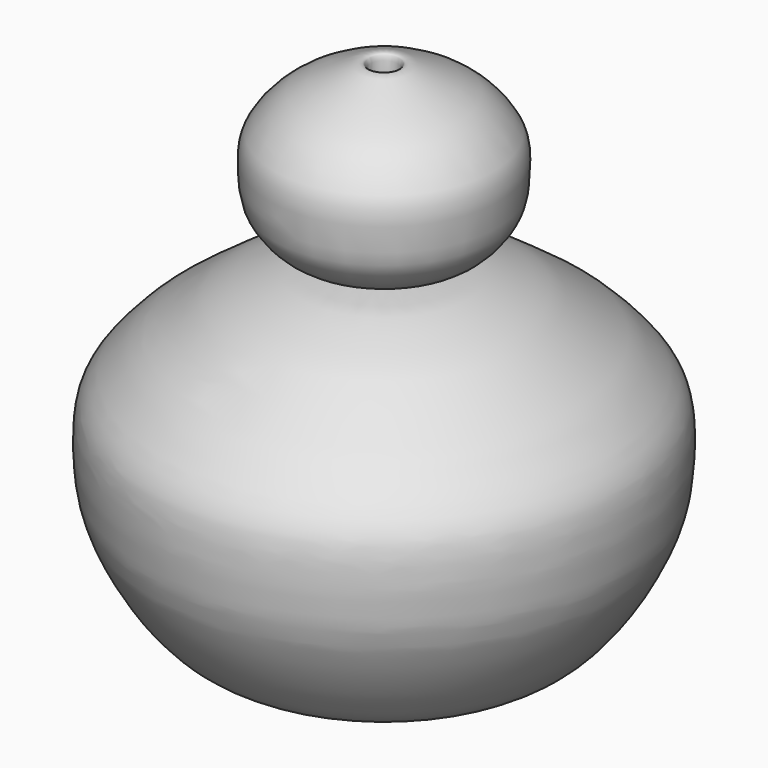
from build123d import *


with BuildPart() as f1:
    # F0 (on Front) → F1 (revolve)
    with BuildSketch(Plane.XZ):
        with BuildLine():
            Line((0, -48.650238663), (0, -42.9697558284))
            Line((0, -42.9697558284), (-7.162347436, -42.9697558284))
            add(Edge.make_bspline(
                [(-2.9637310654, 64.9594441056), (-5.1092717231, 64.3106859449), (-9.2877012785, 63.0472327153), (-14.1170116118, 59.540211813), (-19.3790109379, 55.4402134523), (-22.8770621451, 48.7440853716), (-21.0106904793, 41.7779198256), (-16.3202679889, 36.4703674929), (-10.8828529813, 35.2536961722), (-3.3916316797, 35.8691101247), (-2.5583255739, 29.1713192455), (-7.3093259713, 29.3621305916), (-13.5468967049, 27.792277703), (-21.3350016677, 24.5659510285), (-29.1843917461, 20.4043394851), (-35.816424698, 15.9466819621), (-41.6367947769, 11.2460747247), (-44.7784958946, 4.7433554049), (-49.7755883407, 0.3860107467), (-48.2829176344, -7.2600201409), (-49.0092578145, -13.9138027344), (-46.0138609899, -20.1641744998), (-41.6787485574, -27.0262998709), (-36.3091309606, -33.1719901705), (-30.0941589696, -36.7480925409), (-22.9341143337, -41.3232092438), (-14.3629573034, -42.5996703474), (-9.4905477181, -42.8500946973), (-7.162347436, -42.9697558284)],
                knots=[0, 0, 0, 0, 0.0375786264, 0.0731841845, 0.1110000696, 0.1500116125, 0.1883518658, 0.2261677599, 0.2609806783, 0.298492594, 0.3287822052, 0.3566000636, 0.3942582702, 0.4371032315, 0.480987201, 0.5225157507, 0.5622671814, 0.6014206699, 0.6374519208, 0.6766989727, 0.7145929668, 0.7524219046, 0.7944824285, 0.8360798233, 0.8752333154, 0.9177421493, 0.9606944474, 1, 1, 1, 1], degree=3))
            add(Edge.make_bspline(
                [(-3.7046659272, -48.650238663), (-6.5168389345, -48.7866358164), (-12.3726988315, -49.0706591035), (-22.3278007894, -46.874868188), (-29.7153411098, -42.8115125088), (-36.0566147843, -40.659525268), (-41.7995034689, -35.4206941157), (-46.837900776, -28.2776614189), (-50.8244084676, -20.590925943), (-53.1817678728, -13.3765873148), (-53.7606501751, -4.7696017761), (-53.3658673087, 3.9515335797), (-48.9533387818, 9.4934303838), (-43.6310742953, 15.071847815), (-36.7375760675, 19.6888841874), (-30.5450824843, 24.5090838531), (-22.9627926408, 27.7249652798), (-15.2525132495, 30.6644649112), (-8.2457913697, 30.0669086631), (-8.6758137954, 34.2095250309), (-15.2967348928, 32.9546579907), (-20.0148630431, 35.4473656312), (-25.0058947917, 41.7438643829), (-25.1876736848, 48.8861438866), (-25.3513653307, 54.554423752), (-20.8265861719, 60.8644767073), (-14.3383342941, 65.2713855378), (-9.81593075, 66.7246082728), (-2.6546451957, 70.9537645592), (-2.8667692615, 66.8398928144), (-2.9637310654, 64.9594441056)],
                knots=[0, 0, 0, 0, 0.0395769332, 0.0824120618, 0.1214279507, 0.1558008664, 0.1927336472, 0.2327631572, 0.2722753168, 0.3091383326, 0.3487877627, 0.3879294982, 0.4229845793, 0.4602990214, 0.4990766905, 0.5366957691, 0.5751869104, 0.615011891, 0.6473345639, 0.6663294368, 0.6984726987, 0.7298015454, 0.7669315313, 0.8025094491, 0.8339516754, 0.8707344575, 0.907864445, 0.9391932941, 0.9722052853, 1, 1, 1, 1], degree=3))
            Line((-3.7046659272, -48.650238663), (0, -48.650238663))
        make_face()
    revolve(axis=Axis((0, 0, 0.1278296113), (0, 0, -1)))


solid = f1.part
